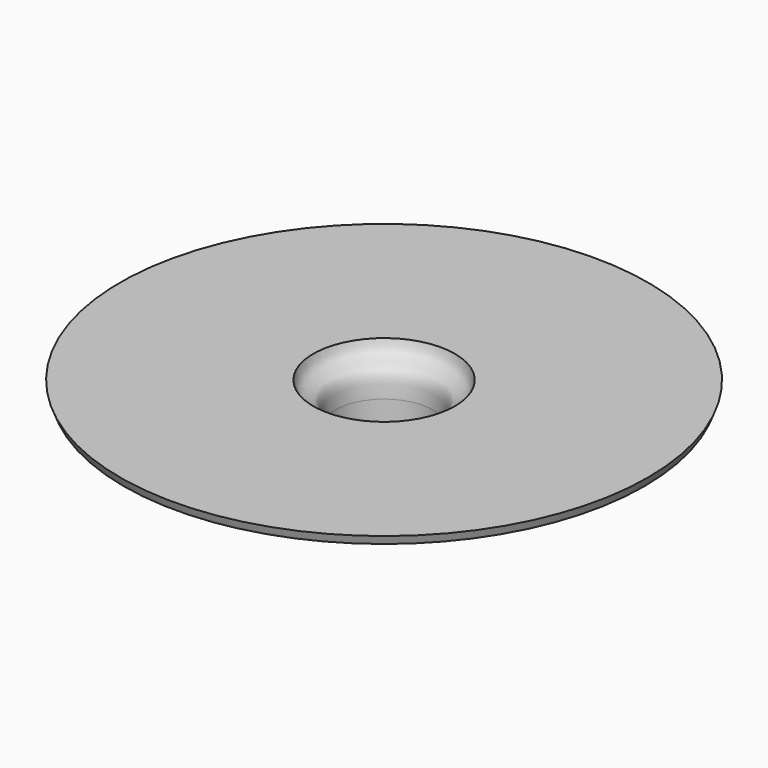
from build123d import *


with BuildPart() as f1:
    # F0 (on Front) → F1 (revolve)
    with BuildSketch(Plane.XZ):
        with BuildLine():
            ThreePointArc((39.6875, -11.2468861043), (48.1489607267, -7.6980115894), (53.1421005726, 0))
            Line((53.1421005726, 0), (186.69, 0))
            Line((186.69, 0), (189.23, 6.35))
            Line((189.23, 6.35), (50.8, 6.35))
            add(Edge.make_bspline(
                [(50.8, 6.35), (49.1728301439, -4.4232065161), (36.2611646426, -1.9466716062), (34.8222671813, -16.0190971942), (34.925, -23.8922853023)],
                knots=[0, 0, 0, 0, 0.4885222498, 1, 1, 1, 1], degree=3))
            Line((34.925, -23.8922853023), (34.925, -40.0551594794))
            add(Edge.make_bspline(
                [(39.6875, -50.8), (38.2820304334, -45.8264946938), (34.8677070156, -44.9470542371), (34.925, -40.0551594794)],
                knots=[0, 0, 0, 0, 11.75299979, 11.75299979, 11.75299979, 11.75299979], degree=3))
            Line((39.6875, -50.8), (39.6875, -11.2468861043))
        make_face()
    revolve(axis=Axis((0, 0, 2.4035767974), (0, 0, -1)))


solid = f1.part
